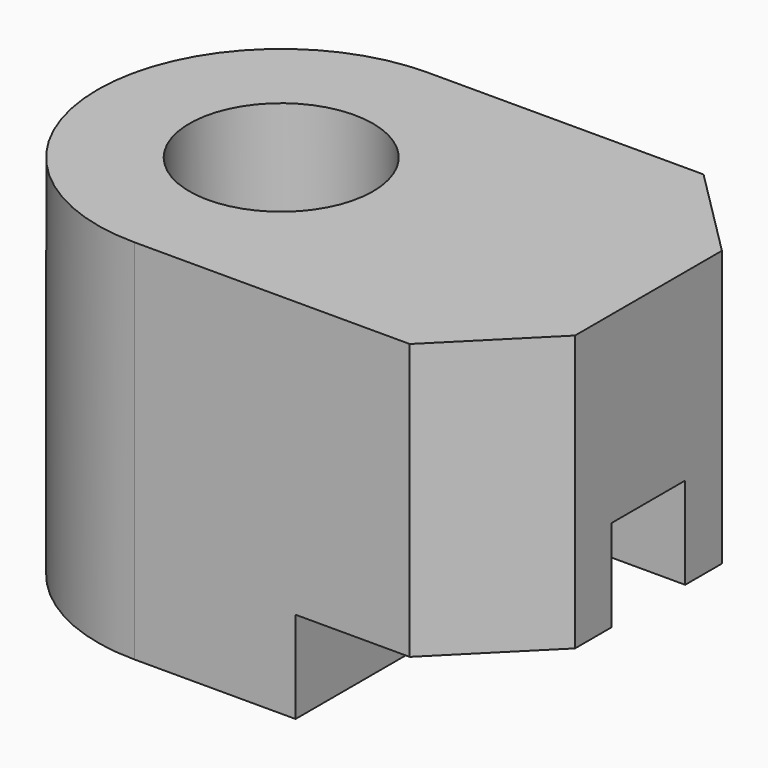
from build123d import *

# Parameters (mm, degrees)
F1_DEPTH  = 20
F3_DEPTH  = 25
F4_DEPTH  = 25
F6_DEPTH  = 25
F7_DEPTH  = 25
F2_R      = 5
F8_DEPTH  = 30
F5_W      = 5
F5_H      = 5
F9_DEPTH  = 50
F10_DEPTH = 50


with BuildPart() as f1:
    # F0 (on Front) → F1 (new body)
    with BuildSketch(Plane.XZ):
        Polygon((0, 20), (0, 0), (18.7821621219, 0), (18.7821621219, 5), (30, 5), (30, 20), align=None)
    extrude(amount=-F1_DEPTH)

    # F2 (on face) → F3 (cut)
    with BuildSketch(Plane.XY.offset(20)):
        with BuildLine():
            ThreePointArc((0, 10), (2.9289321881, 17.0710678119), (10, 20))
            Line((10, 20), (0, 20))
            Line((0, 20), (0, 10))
        make_face()
    extrude(amount=-F3_DEPTH, mode=Mode.SUBTRACT)

    # F2 (on face) → F4 (cut)
    with BuildSketch(Plane.XY.offset(20)):
        with BuildLine():
            Line((0, 0), (10, 0))
            ThreePointArc((10, 0), (2.9289321881, 2.9289321881), (0, 10))
            Line((0, 10), (0, 0))
        make_face()
    extrude(amount=-F4_DEPTH, mode=Mode.SUBTRACT)

    # F2 (on face) → F6 (cut)
    with BuildSketch(Plane.XY.offset(20)):
        Polygon((30, 20), (25, 20), (30, 15), align=None)
    extrude(amount=-F6_DEPTH, mode=Mode.SUBTRACT)

    # F2 (on face) → F7 (cut)
    with BuildSketch(Plane.XY.offset(20)):
        Polygon((30, 5), (25, 0), (30, 0), align=None)
    extrude(amount=-F7_DEPTH, mode=Mode.SUBTRACT)

    # F2 (on face) → F8 (cut)
    with BuildSketch(Plane.XY.offset(20)):
        with Locations((10, 10)):
            Circle(F2_R)
    extrude(amount=-F8_DEPTH, mode=Mode.SUBTRACT)

    # F5 (on face) → F9 (cut)
    with BuildSketch(Plane.YZ.offset(30)):
        with Locations((10, 7.5)):
            Rectangle(F5_W, F5_H)
    extrude(amount=-F9_DEPTH, mode=Mode.SUBTRACT)

    # F5 (on face) → F10 (cut)
    with BuildSketch(Plane.YZ.offset(30)):
        with Locations((10, 2.5)):
            Rectangle(F5_W, F5_H)
    extrude(amount=-F10_DEPTH, mode=Mode.SUBTRACT)


solid = f1.part
